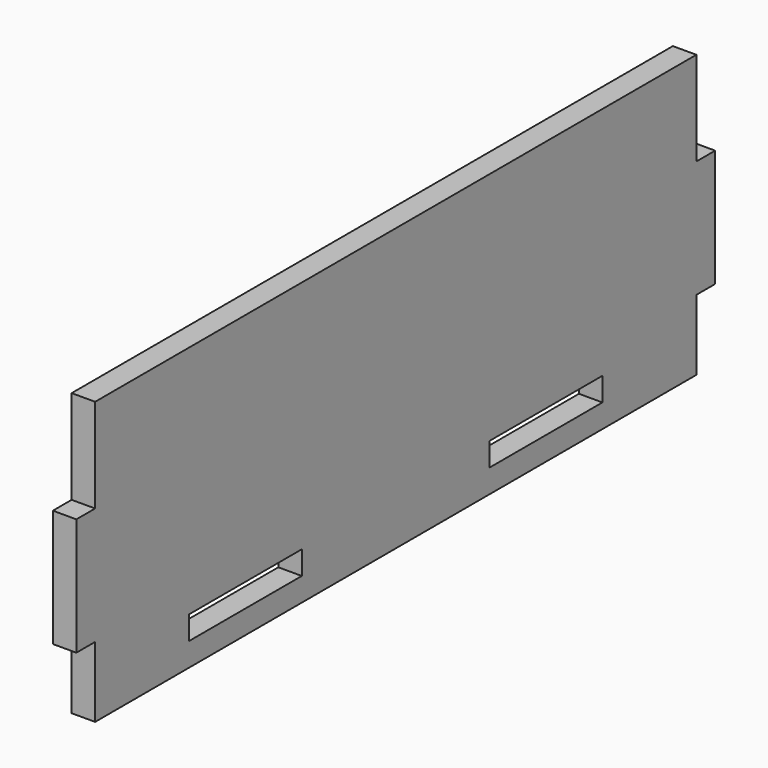
from build123d import *

# Parameters (mm, degrees)
F0_W     = 38.1
F0_H     = 6.35
F1_DEPTH = 6.35


with BuildPart() as f1:
    # F0 (on Right) → F1 (new body)
    with BuildSketch(Plane.YZ):
        Polygon((101.6, 38.1), (-101.6, 38.1), (-101.6, 12.7), (-107.95, 12.7), (-107.95, -19.05), (-101.6, -19.05), (-101.6, -38.1), (101.6, -38.1), (101.6, -19.05), (107.95, -19.05), (107.95, 12.7), (101.6, 12.7), align=None)
        with Locations((-50.8, -28.575)):
            Rectangle(F0_W, F0_H, mode=Mode.SUBTRACT)
        with Locations((50.8, -28.575)):
            Rectangle(F0_W, F0_H, mode=Mode.SUBTRACT)
    extrude(amount=F1_DEPTH)


solid = f1.part
